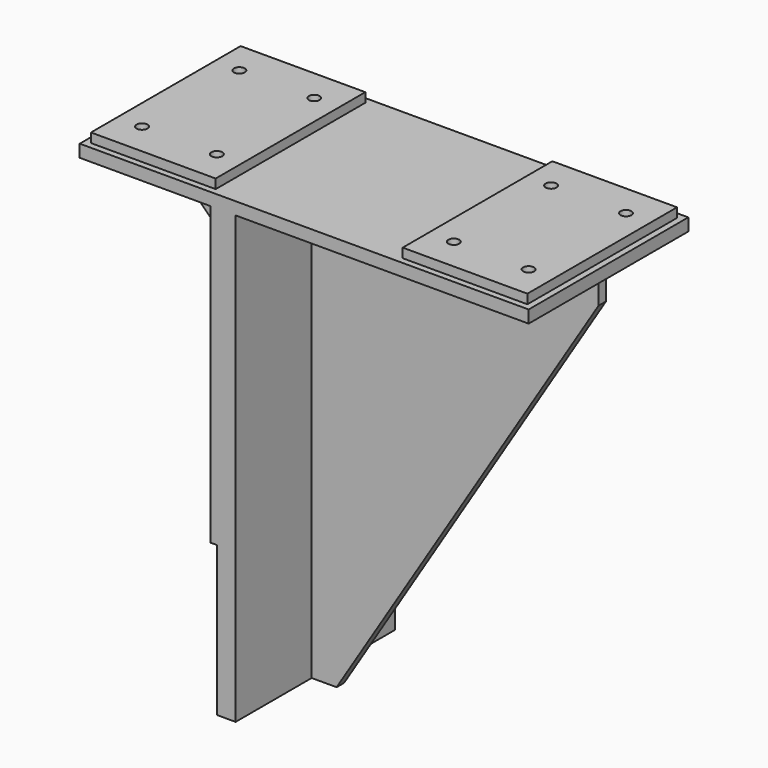
from build123d import *

# Parameters (mm, degrees)
F0_W     = 6.35
F0_H     = 301.752
F1_DEPTH = 101.6
F3_DEPTH = 101.6
F5_DEPTH = 4.7625
F7_DEPTH = 4.7625
F8_W     = 127
F8_H     = 190.5
F9_DEPTH = 9.525
F11_D    = 11.1125


with BuildPart() as f1:
    # F0 (on Front) → F1 (new body, symmetric)
    with BuildSketch(Plane.XZ):
        Polygon((-19.05, -454.152), (0, -454.152), (0, 0), (-19.05, 0), (-19.05, -301.752), align=None)
        with Locations((-22.225, -150.876)):
            Rectangle(F0_W, F0_H)
    extrude(amount=F1_DEPTH, both=True)

    # F2 (on Front) → F3 (join, symmetric)
    with BuildSketch(Plane.XZ):
        Polygon((-158.75, 0), (0, 0), (298.45, 0), (298.45, 12.7), (-158.75, 12.7), align=None)
    extrude(amount=F3_DEPTH, both=True)

    # F4 (on Front) → F5 (join, symmetric)
    with BuildSketch(Plane.XZ):
        Polygon((-25.4, -127), (-25.4, 0), (-152.4, 0), (-152.4, -25.4), (-50.8, -127), align=None)
    extrude(amount=F5_DEPTH, both=True)

    # F6 (on Front) → F7 (join, symmetric)
    with BuildSketch(Plane.XZ):
        Polygon((292.1, 0), (0, 0), (0, -454.152), (25.4, -454.152), (292.1, -25.4), align=None)
    extrude(amount=F7_DEPTH, both=True)

    # F8 (on face) → F9 (join)
    with BuildSketch(Plane.XY.offset(12.7)):
        with Locations((-88.9, 0)):
            Rectangle(F8_W, F8_H)
        with Locations((228.6, 0)):
            Rectangle(F8_W, F8_H)
    extrude(amount=F9_DEPTH)

    # F11 (through all)
    with Locations(Plane.XY.offset(22.225)):
        with Locations((-127, 61.976), (-50.8, 61.976), (-127, -61.976), (-50.8, -61.976), (190.5, 61.976), (266.7, 61.976), (266.7, -61.976), (190.5, -61.976)):
            Hole(F11_D / 2)


solid = f1.part
